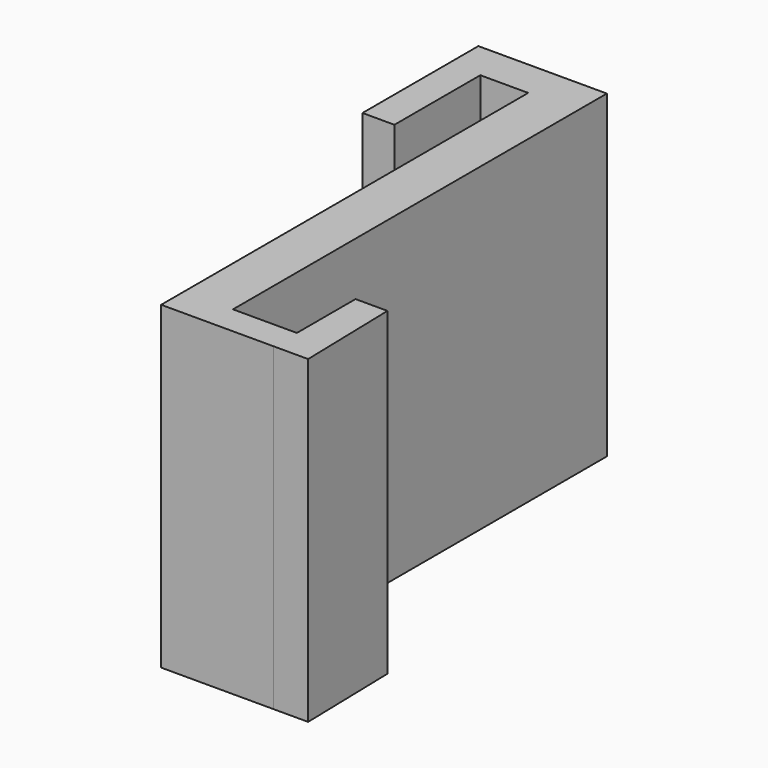
from build123d import *

# Parameters (mm, degrees)
F1_DEPTH = 20
F2_ANGLE = -90


with BuildPart() as f1:
    # F0 (on Front) → F1 (new body)
    with BuildSketch(Plane.XZ):
        Polygon((-10.0444195345, 6.7202923819), (-7.0444195345, 6.7202923819), (-7.0444195345, -22.0063235611), (0, -22.0063235611), (2.1582664922, -22.0060478896), (2, -15.5988996848), (0, -15.5988996848), (0, -20.1908871531), (-4, -20.1908871531), (-4, 9.0697817504), (-12.0444195345, 9.0697817504), (-12.0444195345, 0), (-10.0444195345, 0), align=None)
    extrude(amount=F1_DEPTH)


with BuildPart() as f1_1:
    # F2: moved
    add(f1.part.rotate(Axis((-2, -20, -20.1908871531), (1, 0, 0)), F2_ANGLE))


solid = f1_1.part
